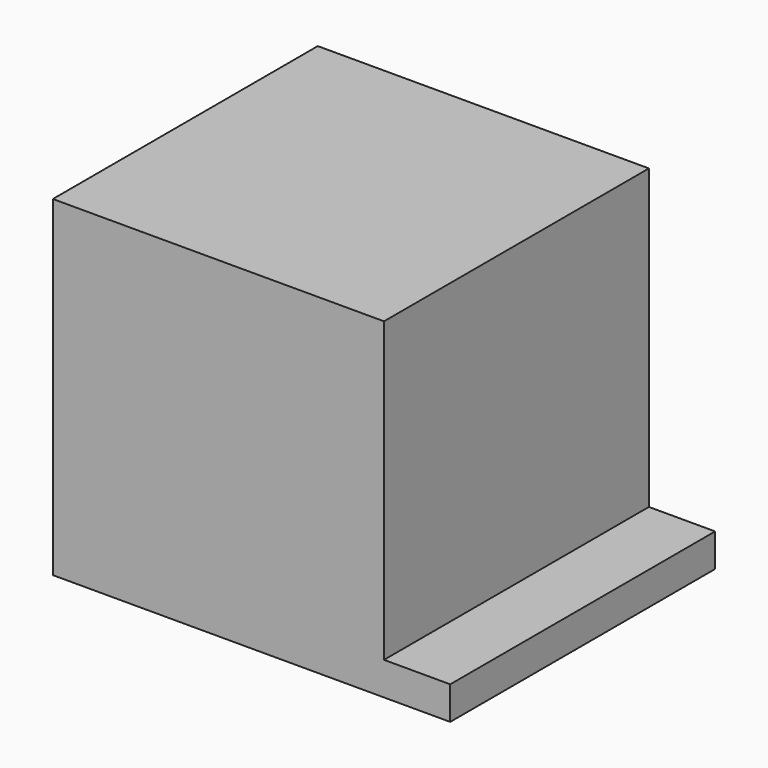
from build123d import *

# Parameters (mm, degrees)
F1_DEPTH = 1000
F4_D     = 0.5


with BuildPart() as f1:
    # F0 (on Front) → F1 (new body)
    with BuildSketch(Plane.XZ):
        Polygon((400, 500), (-600, 500), (-600, -500), (600, -500), (600, -400), (400, -400), align=None)
    extrude(amount=F1_DEPTH)

    # F4 (through all)
    with Locations(Plane.YZ.offset(400)):
        with Locations((-500, -300)):
            Hole(F4_D / 2)


solid = f1.part
